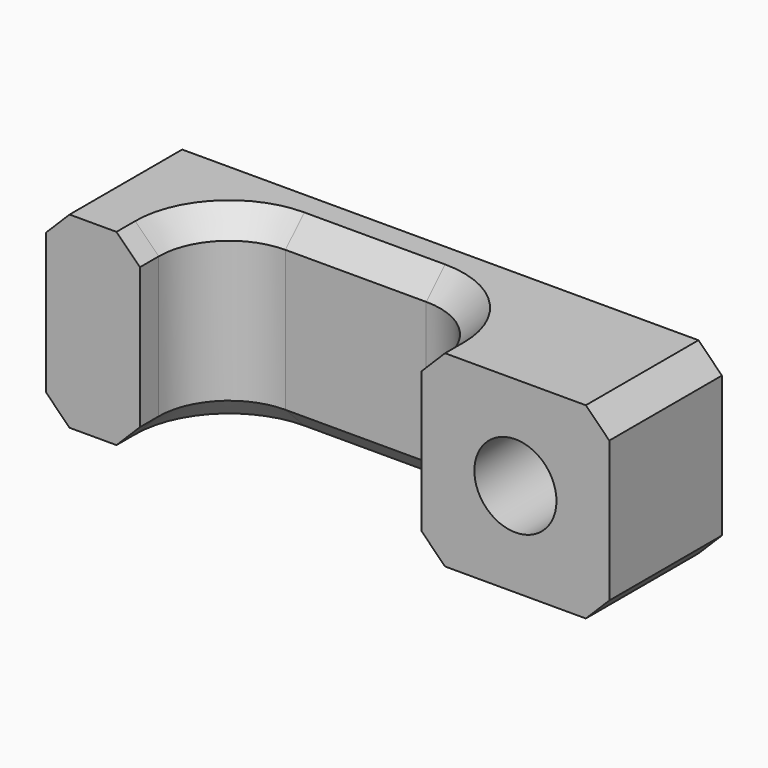
from build123d import *

# Parameters (mm, degrees)
PAD_DEPTH       = 4
PAD_DEPTH_BACK  = 4
SKETCH001_R     = 1.75
POCKET_DEPTH    = 6.001
CHAMFER_SIZE    = 1
POCKET001_DEPTH = 2.5
CHAMFER001_SIZE = 1


with BuildPart() as part:
    # Sketch → Pad (new body, two sides)
    with BuildSketch(Plane.XY) as pad_sk:
        with BuildLine():
            Line((-16, 0), (-20, 0))
            Line((-20, 0), (-20, 6))
            Line((-20, 6), (4, 6))
            Line((4, 6), (4, 0))
            Line((-4, 0), (4, 0))
            Line((-4, 0), (-4, 1))
            ThreePointArc((-4, 1), (-4.87868, 3.12132), (-7, 4))
            Line((-13, 4), (-7, 4))
            ThreePointArc((-13, 4), (-15.12132, 3.12132), (-16, 1))
            Line((-16, 0), (-16, 1))
        make_face()
    extrude(amount=PAD_DEPTH)
    extrude(pad_sk.sketch, amount=-PAD_DEPTH_BACK)

    # Sketch001 → Pocket (cut, through all)
    with BuildSketch(Plane.XZ):
        Circle(SKETCH001_R)
    extrude(amount=-POCKET_DEPTH, mode=Mode.SUBTRACT)

    # Chamfer
    chamfer_edges = [part.edges().sort_by_distance(p)[0] for p in [
        (-20, 3, 4),
        (4, 3, 4),
        (4, 3, -4),
        (-20, 3, -4),
    ]]
    chamfer(chamfer_edges, length=CHAMFER_SIZE)

    # Sketch002 (on DatumPlane) → Pocket001 (cut)
    with BuildSketch(Plane(origin=(0, 6, 0), x_dir=(-1, 0, 0), z_dir=(0, 1, 0))):
        Polygon((3.233162, 0), (1.616581, 2.8), (-1.616581, 2.8), (-3.233162, 0), (-1.616581, -2.8), (1.616581, -2.8), align=None)
    extrude(amount=-POCKET001_DEPTH, mode=Mode.SUBTRACT)

    # Chamfer001
    chamfer001_edges = [part.edges().sort_by_distance(p)[0] for p in [
        (-4, 0.5, 4),
        (-4, 0.5, -4),
    ]]
    chamfer(chamfer001_edges, length=CHAMFER001_SIZE)


solid = part.part
